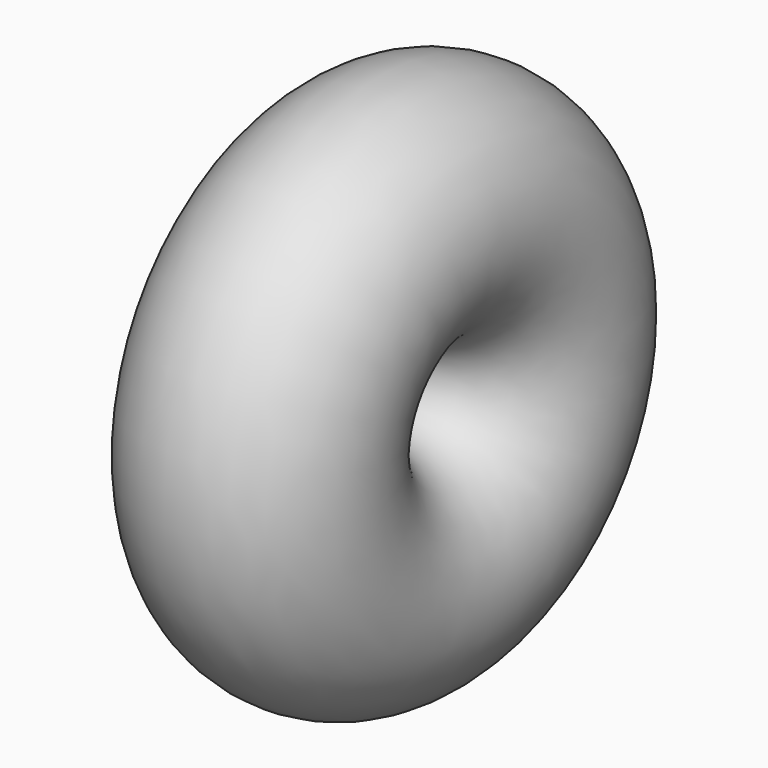
from build123d import *

# Parameters (mm, degrees)
F0_R   = 76.2
F0_R_2 = 69.85


with BuildPart() as f2:
    # F0 (on Top) → F2 (revolve)
    with BuildSketch(Plane.XY):
        with Locations((0, 101.6)):
            Circle(F0_R)
        with Locations((0, 101.6)):
            Circle(F0_R_2, mode=Mode.SUBTRACT)
    revolve(axis=Axis((-39.142333, 0, 0), (-1, 0, 0)))


solid = f2.part
